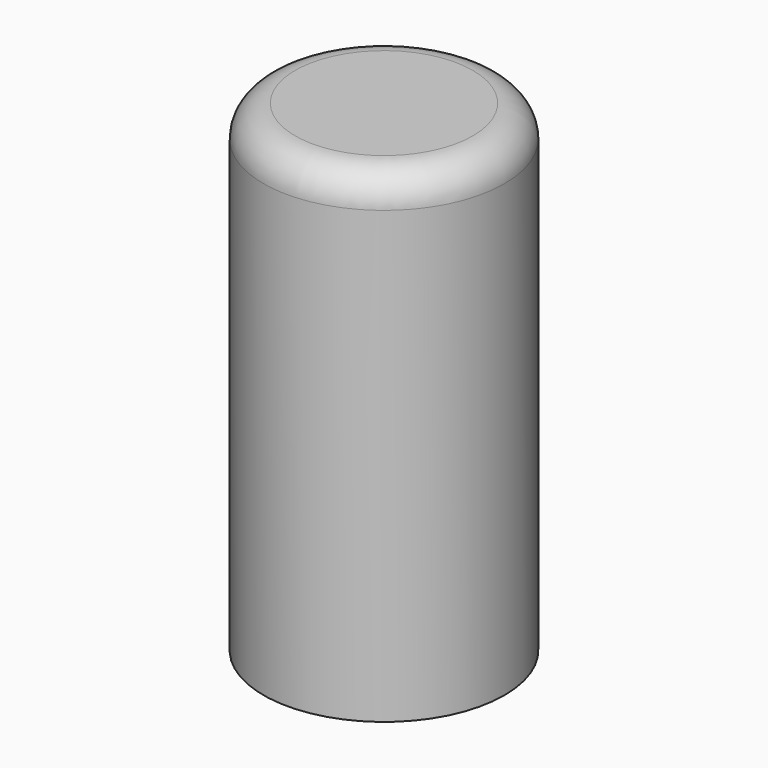
from build123d import *

# Parameters (mm, degrees)
F0_R     = 9.5
F1_DEPTH = 38
F2_R     = 2.5
F3_R     = 9
F4_DEPTH = 6.64
F5_R     = 8.5
F6_DEPTH = 28.4


with BuildPart() as f1:
    # F0 (on Top) → F1 (new body)
    with BuildSketch(Plane.XY):
        Circle(F0_R)
    extrude(amount=F1_DEPTH)

    # F2
    f2_edges = [f1.edges().sort_by_distance(p)[0] for p in [
        (-9.5, 0, 38),
    ]]
    fillet(f2_edges, radius=F2_R)

    # F3 (on face) → F4 (cut)
    with BuildSketch(Plane(origin=(0, 0, 0), x_dir=(1, 0, 0), z_dir=(0, 0, -1))):
        Circle(F3_R)
    extrude(amount=-F4_DEPTH, mode=Mode.SUBTRACT)

    # F5 (on face) → F6 (cut)
    with BuildSketch(Plane(origin=(0, 0, 6.64), x_dir=(1, 0, 0), z_dir=(0, 0, -1))):
        Circle(F5_R)
    extrude(amount=-F6_DEPTH, mode=Mode.SUBTRACT)


solid = f1.part
